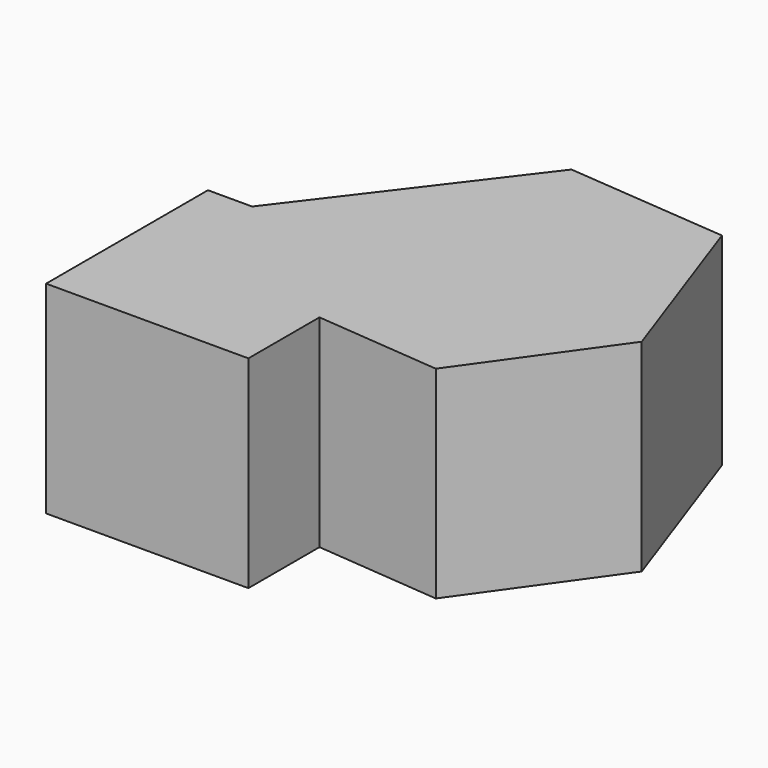
from build123d import *

# Parameters (mm, degrees)
F1_DEPTH = 25.4


with BuildPart() as f1:
    # F0 (on Top) → F1 (new body)
    with BuildSketch(Plane.XY):
        Polygon((-8.610348, -27.288182), (-4.851862, -27.620565), (-4.851862, -13.374916), (-24.708377, -13.374916), (-26.625844, -15.89603), align=None)
        Polygon((-4.851862, -13.374916), (-4.851862, -27.620565), (10.862285, -29.010251), (23.049237, -11.922023), (15.101224, 10.597347), (-5.166208, 12.319417), (-24.708377, -13.374916), align=None)
        Polygon((-30.251862, -13.374916), (-30.251862, -38.774916), (-4.851862, -38.774916), (-4.851862, -27.620565), (-8.610348, -27.288182), (-26.625844, -15.89603), (-24.708377, -13.374916), align=None)
    extrude(amount=F1_DEPTH)


solid = f1.part
